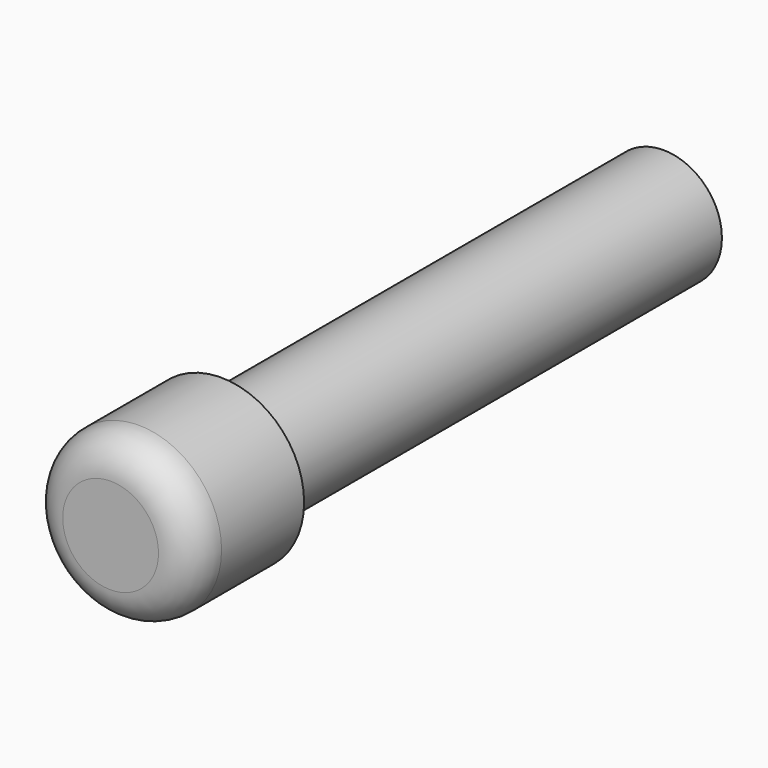
from build123d import *

# Parameters (mm, degrees)
F0_R     = 21.484759
F0_R_2   = 20.336047
F1_DEPTH = 101.6
F2_R     = 30.47998
F3_DEPTH = 50.8
F4_R     = 12.877415


with BuildPart() as f1:
    # F0 (on Front) → F1 (new body, symmetric)
    with BuildSketch(Plane.XZ):
        Circle(F0_R)
        Circle(F0_R_2, mode=Mode.SUBTRACT)
    extrude(amount=F1_DEPTH, both=True)

    # F2 (on face) → F3 (join)
    with BuildSketch(Plane.XZ.offset(101.6)):
        Circle(F2_R)
    extrude(amount=F3_DEPTH)

    # F4
    f4_edges = [f1.edges().sort_by_distance(p)[0] for p in [
        (-30.47998, -152.4, 0),
    ]]
    fillet(f4_edges, radius=F4_R)


solid = f1.part
